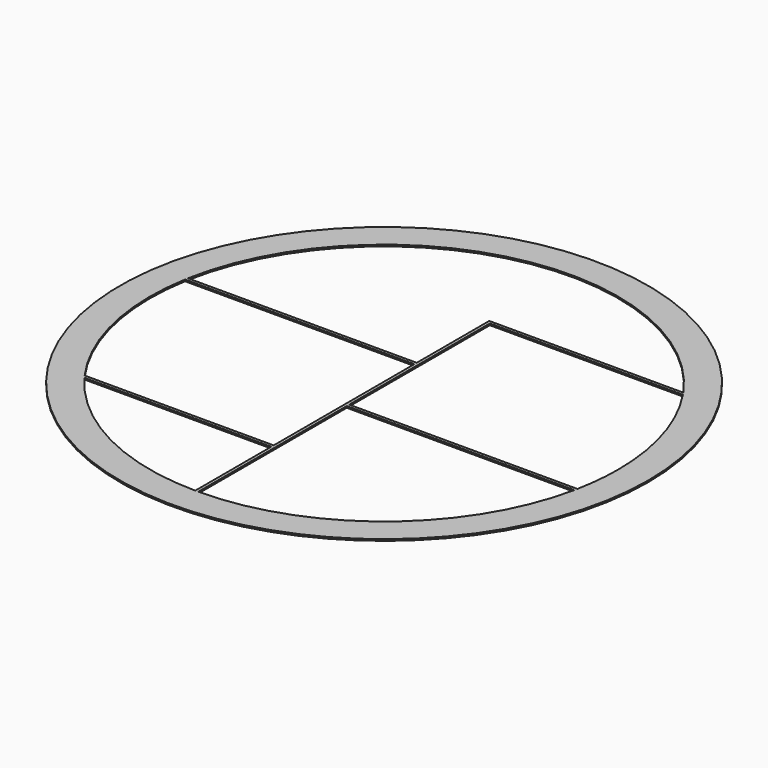
from build123d import *

# Parameters (mm, degrees)
F0_R     = 522.5
F1_DEPTH = 3.18


with BuildPart() as f1:
    # F0 (on Top) → F1 (new body)
    with BuildSketch(Plane.XY):
        Circle(F0_R)
        with BuildLine():
            ThreePointArc((385.144778, 257.95756), (443.515763, 134.804935), (463.55, 0))
            ThreePointArc((463.55, 0), (461.337407, -45.237144), (454.720751, -90.04244))
            ThreePointArc((454.720751, -90.04244), (454.115986, -93.04447), (453.491403, -96.04244))
            ThreePointArc((453.491403, -96.04244), (293.018375, -359.191919), (3, -463.540292))
            ThreePointArc((3, -463.540292), (0, -463.55), (-3, -463.540292))
            ThreePointArc((-3, -463.540292), (-210.136781, -413.184142), (-372.83495, -275.45))
            ThreePointArc((-372.83495, -275.45), (-375.026465, -272.458718), (-377.193982, -269.45))
            ThreePointArc((-377.193982, -269.45), (-451.864779, -103.42545), (-456.846254, 78.55))
            ThreePointArc((-456.846254, 78.55), (-456.319967, 81.551762), (-455.773957, 84.55))
            ThreePointArc((-455.773957, 84.55), (-97.171992, 453.25071), (381.05775, 263.95756))
            ThreePointArc((381.05775, 263.95756), (383.11301, 260.965561), (385.144778, 257.95756))
        make_face(mode=Mode.SUBTRACT)
        with BuildLine():
            Line((-3, 84.55), (-455.773957, 84.55))
            ThreePointArc((-455.773957, 84.55), (-456.319967, 81.551762), (-456.846254, 78.55))
            Line((-456.846254, 78.55), (-3, 78.55))
            Line((-3, 78.55), (-3, 84.55))
        make_face()
        with BuildLine():
            Line((3, 257.95756), (385.144778, 257.95756))
            ThreePointArc((385.144778, 257.95756), (383.11301, 260.965561), (381.05775, 263.95756))
            Line((381.05775, 263.95756), (-3, 263.95756))
            Line((-3, 263.95756), (-3, 84.55))
            Line((-3, 84.55), (-3, 78.55))
            Line((-3, 78.55), (-3, -269.45))
            Line((-3, -269.45), (-3, -275.45))
            Line((-3, -275.45), (-3, -463.540292))
            ThreePointArc((-3, -463.540292), (0, -463.55), (3, -463.540292))
            Line((3, -463.540292), (3, -96.04244))
            Line((3, -96.04244), (3, -90.04244))
            Line((3, -90.04244), (3, 257.95756))
        make_face()
        with BuildLine():
            ThreePointArc((453.491403, -96.04244), (454.115986, -93.04447), (454.720751, -90.04244))
            Line((454.720751, -90.04244), (3, -90.04244))
            Line((3, -90.04244), (3, -96.04244))
            Line((3, -96.04244), (453.491403, -96.04244))
        make_face()
        with BuildLine():
            Line((-3, -269.45), (-377.193982, -269.45))
            ThreePointArc((-377.193982, -269.45), (-375.026465, -272.458718), (-372.83495, -275.45))
            Line((-372.83495, -275.45), (-3, -275.45))
            Line((-3, -275.45), (-3, -269.45))
        make_face()
    extrude(amount=F1_DEPTH)


solid = f1.part
